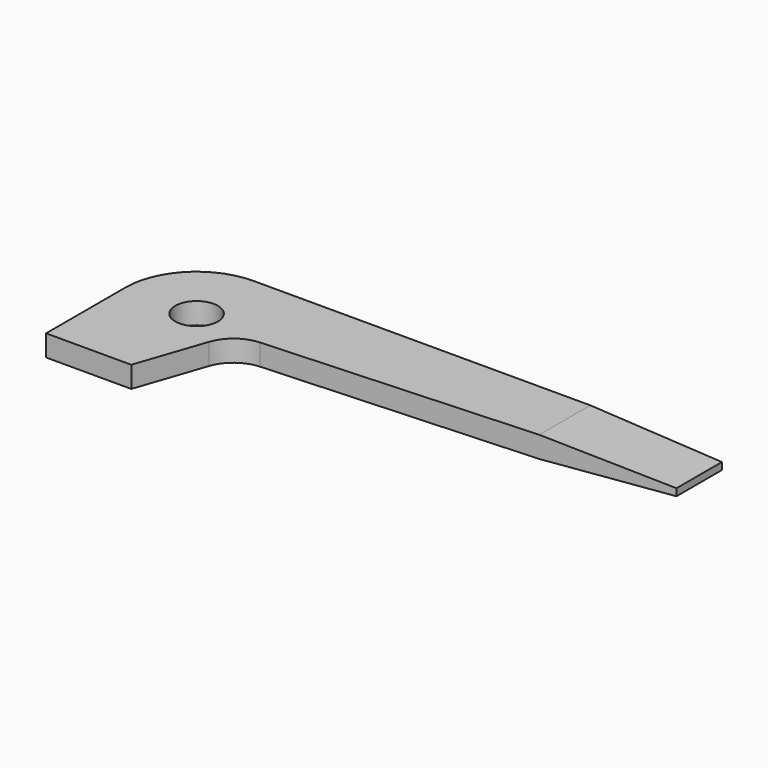
from build123d import *

# Parameters (mm, degrees)
F1_DEPTH = 2.38125
F2_R     = 2.38125
F3_DEPTH = 2.38225
F5_DEPTH = 25.4


with BuildPart() as f1:
    # F0 (on Top) → F1 (new body)
    with BuildSketch(Plane.XY):
        with BuildLine():
            Line((60.325, 19.05), (7.9375, 19.05))
            ThreePointArc((7.9375, 19.05), (2.32484, 16.72516), (0, 11.1125))
            Line((0, 11.1125), (0, 0))
            Line((0, 0), (9.525, 0))
            Line((9.525, 0), (12.117365, 7.627166))
            ThreePointArc((12.117365, 7.627166), (13.478615, 9.513592), (15.663196, 10.313094))
            Line((15.663196, 10.313094), (60.325, 12.7))
            Line((60.325, 12.7), (60.325, 19.05))
        make_face()
    extrude(amount=F1_DEPTH)

    # F2 (on face) → F3 (cut, through all)
    with BuildSketch(Plane.XY.offset(2.38125)):
        with Locations((7.9375, 11.1125)):
            Circle(F2_R)
    extrude(amount=-F3_DEPTH, mode=Mode.SUBTRACT)

    # F4 (on face) → F5 (cut)
    with BuildSketch(Plane(origin=(0, 19.05, 0), x_dir=(-1, 0, 0), z_dir=(0, 1, 0))):
        Polygon((-45.61263, 0), (-60.325, 0.79375), (-60.325, 0), align=None)
        Polygon((-45.61263, 2.38125), (-60.325, 2.38125), (-60.325, 1.5875), align=None)
    extrude(amount=-F5_DEPTH, mode=Mode.SUBTRACT)


solid = f1.part
